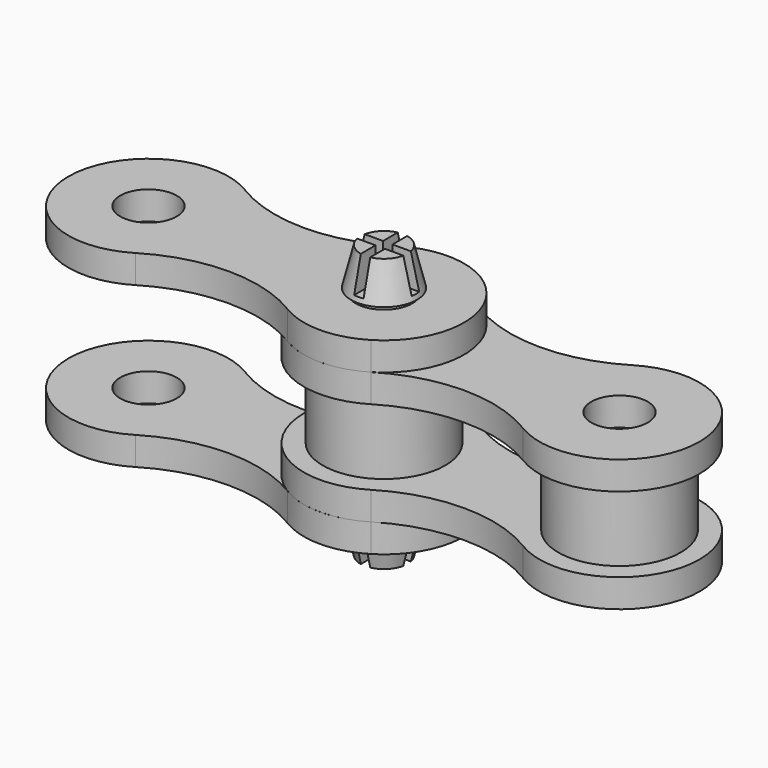
from build123d import *

# Parameters (mm, degrees)
F0_R      = 1.5
F1_DEPTH  = 1.5
F2_R      = 3.25
F2_R_2    = 1.625
F3_DEPTH  = 4
F2_R_3    = 1.675
F4_R      = 1.5
F5_DEPTH  = 1.5
F6_R      = 1.5
F7_DEPTH  = 1.5
F8_R      = 1.5
F9_DEPTH  = 1.5
F13_DEPTH = 1.75
F16_DEPTH = 1.75


with BuildPart() as f1:
    # F0 (on Top) → F1 (new body)
    with BuildSketch(Plane.XY):
        with BuildLine():
            ThreePointArc((10.2874184469, 3.6286337471), (6.25, 2.4947927965), (2.2125815531, 3.6286337471))
            ThreePointArc((2.2125815531, 3.6286337471), (-4.25, 0), (2.2125815531, -3.6286337471))
            ThreePointArc((2.2125815531, -3.6286337471), (6.25, -2.4947927965), (10.2874184469, -3.6286337471))
            ThreePointArc((10.2874184469, -3.6286337471), (16.75, 0), (10.2874184469, 3.6286337471))
        make_face()
        Circle(F0_R, mode=Mode.SUBTRACT)
        with Locations((12.5, 0)):
            Circle(F0_R, mode=Mode.SUBTRACT)
    extrude(amount=F1_DEPTH)


with BuildPart() as f3:
    # F2 (on face) → F3 (new body)
    with BuildSketch(Plane.XY.offset(1.5)):
        Circle(F2_R)
        Circle(F2_R_2, mode=Mode.SUBTRACT)
    extrude(amount=F3_DEPTH)


with BuildPart() as f3b:
    # F2 (on face) → F3, piece 2 (new body)
    with BuildSketch(Plane.XY.offset(1.5)):
        with Locations((12.5, 0)):
            Circle(F2_R)
        with Locations((12.5, 0)):
            Circle(F2_R_3, mode=Mode.SUBTRACT)
    extrude(amount=F3_DEPTH)


with BuildPart() as f5:
    # F4 (on face) → F5 (new body)
    with BuildSketch(Plane.XY.offset(5.5)):
        with BuildLine():
            ThreePointArc((10.2874184469, 3.6286337471), (6.25, 2.4947927965), (2.2125815531, 3.6286337471))
            ThreePointArc((2.2125815531, 3.6286337471), (-4.25, 0), (2.2125815531, -3.6286337471))
            ThreePointArc((2.2125815531, -3.6286337471), (6.25, -2.4947927965), (10.2874184469, -3.6286337471))
            ThreePointArc((10.2874184469, -3.6286337471), (16.75, 0), (10.2874184469, 3.6286337471))
        make_face()
        Circle(F4_R, mode=Mode.SUBTRACT)
        with Locations((12.5, 0)):
            Circle(F4_R, mode=Mode.SUBTRACT)
    extrude(amount=F5_DEPTH)


with BuildPart() as f7:
    # F6 (on face) → F7 (new body)
    with BuildSketch(Plane.XY.offset(7)):
        with BuildLine():
            ThreePointArc((-2.2125815531, 3.6286337471), (-6.25, 2.4947927965), (-10.2874184469, 3.6286337471))
            ThreePointArc((-10.2874184469, 3.6286337471), (-16.75, 0), (-10.2874184469, -3.6286337471))
            ThreePointArc((-10.2874184469, -3.6286337471), (-6.25, -2.4947927965), (-2.2125815531, -3.6286337471))
            ThreePointArc((-2.2125815531, -3.6286337471), (-4.25, 0), (-2.2125815531, 3.6286337471))
        make_face()
        with Locations((-12.5, 0)):
            Circle(F6_R, mode=Mode.SUBTRACT)
        with BuildLine():
            ThreePointArc((2.2125815531, 3.6286337471), (0, 4.25), (-2.2125815531, 3.6286337471))
            ThreePointArc((-2.2125815531, 3.6286337471), (-4.25, 0), (-2.2125815531, -3.6286337471))
            ThreePointArc((-2.2125815531, -3.6286337471), (0, -4.25), (2.2125815531, -3.6286337471))
            ThreePointArc((2.2125815531, -3.6286337471), (4.25, 0), (2.2125815531, 3.6286337471))
        make_face()
        Circle(F6_R, mode=Mode.SUBTRACT)
    extrude(amount=F7_DEPTH)


with BuildPart() as f9:
    # F8 (on face) → F9 (new body)
    with BuildSketch(Plane.XY):
        with BuildLine():
            ThreePointArc((-2.2125815531, 3.6286337471), (-6.25, 2.4947927965), (-10.2874184469, 3.6286337471))
            ThreePointArc((-10.2874184469, 3.6286337471), (-16.75, 0), (-10.2874184469, -3.6286337471))
            ThreePointArc((-10.2874184469, -3.6286337471), (-6.25, -2.4947927965), (-2.2125815531, -3.6286337471))
            ThreePointArc((-2.2125815531, -3.6286337471), (-4.25, 0), (-2.2125815531, 3.6286337471))
        make_face()
        with Locations((-12.5, 0)):
            Circle(F8_R, mode=Mode.SUBTRACT)
        with BuildLine():
            ThreePointArc((2.2125815531, 3.6286337471), (0, 4.25), (-2.2125815531, 3.6286337471))
            ThreePointArc((-2.2125815531, 3.6286337471), (-4.25, 0), (-2.2125815531, -3.6286337471))
            ThreePointArc((-2.2125815531, -3.6286337471), (0, -4.25), (2.2125815531, -3.6286337471))
            ThreePointArc((2.2125815531, -3.6286337471), (4.25, 0), (2.2125815531, 3.6286337471))
        make_face()
        Circle(F8_R, mode=Mode.SUBTRACT)
    extrude(amount=-F9_DEPTH)


with BuildPart() as f11:
    # F10 (on Front) → F11 (revolve)
    with BuildSketch(Plane.XZ):
        Polygon((1.25, 10.75), (0, 10.75), (0, -3.75), (1.25, -3.75), (1.75, -1.75), (1.25, -1.75), (1.25, 1.75), (1.5, 1.75), (1.5, 3.5), (1.5, 5.25), (1.25, 5.25), (1.25, 8.75), (1.75, 8.75), align=None)
    revolve(axis=Axis((0, 0, 3.5), (0, 0, 1)))


with BuildPart() as f13:
    # F12 (on face) → F13 (new body)
    with BuildSketch(Plane.XY.offset(10.75)):
        with BuildLine():
            ThreePointArc((1.25, 0), (1.2436701913, 0.1256362025), (1.2247448714, 0.25))
            Line((1.2247448714, 0.25), (0.25, 0.25))
            Line((0.25, 0.25), (0.25, 1.2247448714))
            ThreePointArc((0.25, 1.2247448714), (0, 1.25), (-0.25, 1.2247448714))
            Line((-0.25, 1.2247448714), (-0.25, 0.25))
            Line((-0.25, 0.25), (-1.2247448714, 0.25))
            ThreePointArc((-1.2247448714, 0.25), (-1.25, 0), (-1.2247448714, -0.25))
            Line((-1.2247448714, -0.25), (-0.25, -0.25))
            Line((-0.25, -0.25), (-0.25, -1.2247448714))
            ThreePointArc((-0.25, -1.2247448714), (0, -1.25), (0.25, -1.2247448714))
            Line((0.25, -1.2247448714), (0.25, -0.25))
            Line((0.25, -0.25), (1.2247448714, -0.25))
            ThreePointArc((1.2247448714, -0.25), (1.2436701913, -0.1256362025), (1.25, 0))
        make_face()
        with BuildLine():
            ThreePointArc((-0.25, 1.2247448714), (0, 1.25), (0.25, 1.2247448714))
            Line((0.25, 1.2247448714), (0.25, 1.875))
            Line((0.25, 1.875), (-0.25, 1.875))
            Line((-0.25, 1.875), (-0.25, 1.2247448714))
        make_face()
        with BuildLine():
            Line((1.875, -0.25), (1.875, 0.25))
            Line((1.875, 0.25), (1.2247448714, 0.25))
            ThreePointArc((1.2247448714, 0.25), (1.2436701913, 0.1256362025), (1.25, 0))
            ThreePointArc((1.25, 0), (1.2436701913, -0.1256362025), (1.2247448714, -0.25))
            Line((1.2247448714, -0.25), (1.875, -0.25))
        make_face()
        with BuildLine():
            Line((0.25, -1.875), (0.25, -1.2247448714))
            ThreePointArc((0.25, -1.2247448714), (0, -1.25), (-0.25, -1.2247448714))
            Line((-0.25, -1.2247448714), (-0.25, -1.875))
            Line((-0.25, -1.875), (0.25, -1.875))
        make_face()
        with BuildLine():
            ThreePointArc((-1.2247448714, -0.25), (-1.25, 0), (-1.2247448714, 0.25))
            Line((-1.2247448714, 0.25), (-1.875, 0.25))
            Line((-1.875, 0.25), (-1.875, -0.25))
            Line((-1.875, -0.25), (-1.2247448714, -0.25))
        make_face()
    extrude(amount=-F13_DEPTH)


with BuildPart() as f11_1:
    add(f11.part)

    # F14: cut F13
    add(f13.part, mode=Mode.SUBTRACT)


with BuildPart() as f16:
    # F15 (on face) → F16 (new body)
    with BuildSketch(Plane(origin=(0, 0, -3.75), x_dir=(1, 0, 0), z_dir=(0, 0, -1))):
        with BuildLine():
            ThreePointArc((1.25, 0), (1.2436701913, 0.1256362025), (1.2247448714, 0.25))
            Line((1.2247448714, 0.25), (0.25, 0.25))
            Line((0.25, 0.25), (0.25, 1.2247448714))
            ThreePointArc((0.25, 1.2247448714), (0, 1.25), (-0.25, 1.2247448714))
            Line((-0.25, 1.2247448714), (-0.25, 0.25))
            Line((-0.25, 0.25), (-1.2247448714, 0.25))
            ThreePointArc((-1.2247448714, 0.25), (-1.25, 0), (-1.2247448714, -0.25))
            Line((-1.2247448714, -0.25), (-0.25, -0.25))
            Line((-0.25, -0.25), (-0.25, -1.2247448714))
            ThreePointArc((-0.25, -1.2247448714), (0, -1.25), (0.25, -1.2247448714))
            Line((0.25, -1.2247448714), (0.25, -0.25))
            Line((0.25, -0.25), (1.2247448714, -0.25))
            ThreePointArc((1.2247448714, -0.25), (1.2436701913, -0.1256362025), (1.25, 0))
        make_face()
        with BuildLine():
            Line((1.875, -0.25), (1.875, 0.25))
            Line((1.875, 0.25), (1.2247448714, 0.25))
            ThreePointArc((1.2247448714, 0.25), (1.2436701913, 0.1256362025), (1.25, 0))
            ThreePointArc((1.25, 0), (1.2436701913, -0.1256362025), (1.2247448714, -0.25))
            Line((1.2247448714, -0.25), (1.875, -0.25))
        make_face()
        with BuildLine():
            Line((0.25, -1.875), (0.25, -1.2247448714))
            ThreePointArc((0.25, -1.2247448714), (0, -1.25), (-0.25, -1.2247448714))
            Line((-0.25, -1.2247448714), (-0.25, -1.875))
            Line((-0.25, -1.875), (0.25, -1.875))
        make_face()
        with BuildLine():
            ThreePointArc((-1.2247448714, -0.25), (-1.25, 0), (-1.2247448714, 0.25))
            Line((-1.2247448714, 0.25), (-1.875, 0.25))
            Line((-1.875, 0.25), (-1.875, -0.25))
            Line((-1.875, -0.25), (-1.2247448714, -0.25))
        make_face()
        with BuildLine():
            ThreePointArc((-0.25, 1.2247448714), (0, 1.25), (0.25, 1.2247448714))
            Line((0.25, 1.2247448714), (0.25, 1.875))
            Line((0.25, 1.875), (-0.25, 1.875))
            Line((-0.25, 1.875), (-0.25, 1.2247448714))
        make_face()
    extrude(amount=-F16_DEPTH)


with BuildPart() as f11_2:
    add(f11_1.part)

    # F17: cut F16
    add(f16.part, mode=Mode.SUBTRACT)


solid = Compound([f1.part, f3.part, f3b.part, f5.part, f7.part, f9.part, f11_2.part])
